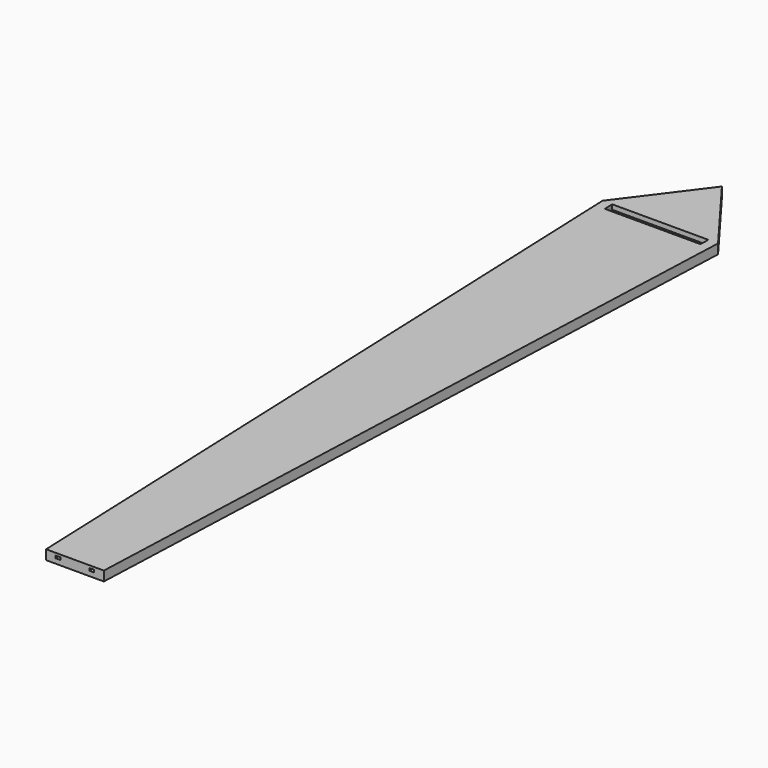
from build123d import *

# Parameters (mm, degrees)
F1_DEPTH = 3.175
F3_DEPTH = 1.5875
F5_DEPTH = 3.175
F7_DEPTH = 3.175


with BuildPart() as f1:
    # F0 (on Top) → F1 (new body)
    with BuildSketch(Plane.XY):
        Polygon((0, 266.7), (-38.1, 215.9), (-19.05, -266.7), (19.05, -266.7), (38.1, 215.9), align=None)
    extrude(amount=F1_DEPTH)

    # F2 (on Top) → F3 (cut)
    with BuildSketch(Plane.XY):
        Polygon((31.745055, 215.9), (-31.745055, 215.9), (-12.685168, -266.950463), (-9.512639, -266.825231), (-28.316924, 209.55), (28.316924, 209.55), (9.517582, -266.7), (12.690111, -266.825231), align=None)
    extrude(amount=F3_DEPTH, mode=Mode.SUBTRACT)

    # F4 (on face) → F5 (cut)
    with BuildSketch(Plane.XY.offset(3.175)):
        Polygon((31.745055, 215.9), (-31.745055, 215.9), (-31.494397, 209.55), (31.494397, 209.55), align=None)
    extrude(amount=-F5_DEPTH, mode=Mode.SUBTRACT)

    # F6 (on face) → F7 (join)
    with BuildSketch(Plane(origin=(0, 0, 0), x_dir=(1, 0, 0), z_dir=(0, 0, -1))):
        Polygon((-19.05, 266.7), (-38.1, -215.9), (0, -266.7), (38.1, -215.9), (19.05, 266.7), align=None)
    extrude(amount=F7_DEPTH)


solid = f1.part
